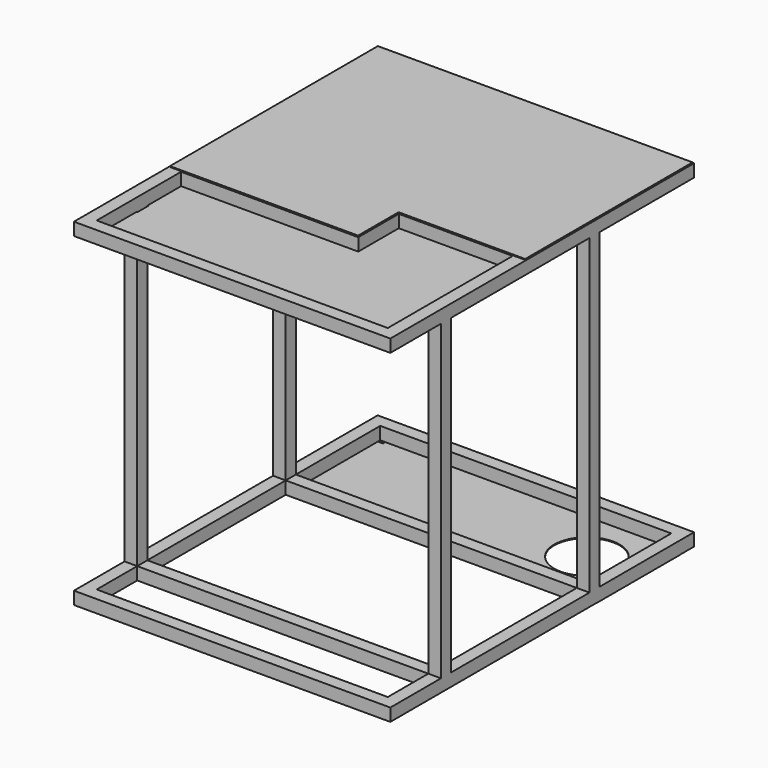
from build123d import *

# Parameters (mm, degrees)
F0_W      = 750
F0_H      = 900
F0_W_2    = 690
F0_H_2    = 120
F0_H_3    = 410
F0_H_4    = 250
F1_DEPTH  = 30
F2_W      = 30
F2_H      = 30
F3_DEPTH  = 740
F5_DEPTH  = 5
F6_W      = 30
F6_H      = 30
F7_DEPTH  = 30
F9_DEPTH  = 2
F10_R     = 77.5
F11_DEPTH = 2
F13_DEPTH = 2


with BuildPart() as f1:
    # F0 (on Top) → F1 (new body)
    with BuildSketch(Plane.XY):
        Rectangle(F0_W, F0_H)
        with Locations((0, -360)):
            Rectangle(F0_W_2, F0_H_2, mode=Mode.SUBTRACT)
        with Locations((0, -65)):
            Rectangle(F0_W_2, F0_H_3, mode=Mode.SUBTRACT)
        with Locations((0, 295)):
            Rectangle(F0_W_2, F0_H_4, mode=Mode.SUBTRACT)
    extrude(amount=F1_DEPTH)

    # F2 (on face) → F3 (join)
    with BuildSketch(Plane.XY.offset(30)):
        with Locations((-360, -285)):
            Rectangle(F2_W, F2_H)
        with Locations((360, -285)):
            Rectangle(F2_W, F2_H)
        with Locations((360, 155)):
            Rectangle(F2_W, F2_H)
        with Locations((-360, 155)):
            Rectangle(F2_W, F2_H)
    extrude(amount=F3_DEPTH)

    # F6 (on face) → F7 (join)
    with BuildSketch(Plane.XY.offset(770)):
        Polygon((375, 170), (375, 450), (-375, 450), (-375, -450), (375, -450), (375, 140), (345, 140), (345, -20), (45, -20), (45, -140), (-345, -140), (-345, 420), (345, 420), (345, 170), align=None)
        Polygon((345, -50), (345, -420), (-345, -420), (-345, -170), (75, -170), (75, -50), align=None, mode=Mode.SUBTRACT)
        with Locations((360, 155)):
            Rectangle(F6_W, F6_H)
    extrude(amount=F7_DEPTH)

    # F10 (on face) → F11 (join)
    with BuildSketch(Plane(origin=(0, 0, 0), x_dir=(1, 0, 0), z_dir=(0, 0, -1))):
        Polygon((-373, -413), (-345, -413), (-345, -170), (345, -170), (345, -413), (373, -413), (373, -160), (0, -160), (-373, -160), align=None)
        Polygon((-333, -413), (-333, -420), (333, -420), (333, -413), (345, -413), (345, -170), (-345, -170), (-345, -413), align=None)
        with Locations((245, -295)):
            Circle(F10_R, mode=Mode.SUBTRACT)
        Polygon((-333, -448), (0, -448), (333, -448), (333, -420), (-333, -420), align=None)
    extrude(amount=F11_DEPTH)


with BuildPart() as f5:
    # F4 (on face) → F5 (new body)
    with BuildSketch(Plane(origin=(0, 0, 0), x_dir=(1, 0, 0), z_dir=(0, 0, -1))):
        Polygon((-345, -415), (-375, -415), (-375, -450), (-335, -450), (-335, -420), (-345, -420), align=None)
        with BuildLine():
            Line((-375, -415), (-383, -415))
            ThreePointArc((-383, -415), (-384.4142135624, -415.5857864376), (-385, -417))
            Line((-385, -417), (-385, -453))
            ThreePointArc((-385, -453), (-384.4142135624, -454.4142135624), (-383, -455))
            Line((-383, -455), (-337, -455))
            ThreePointArc((-337, -455), (-335.5857864376, -454.4142135624), (-335, -453))
            Line((-335, -453), (-335, -450))
            Line((-335, -450), (-375, -450))
            Line((-375, -450), (-375, -415))
        make_face()
        with BuildLine():
            Line((-337, -415), (-345, -415))
            Line((-345, -415), (-345, -420))
            Line((-345, -420), (-335, -420))
            Line((-335, -420), (-335, -417))
            ThreePointArc((-335, -417), (-335.5857864376, -415.5857864376), (-337, -415))
        make_face()
    extrude(amount=F5_DEPTH)


with BuildPart() as f9:
    # F8 (on face) → F9 (new body)
    with BuildSketch(Plane.XY.offset(800)):
        Polygon((373, 448), (-373, 448), (-373, -168), (73, -168), (73, -48), (373, -48), align=None)
        Polygon((345, 420), (345, -20), (45, -20), (45, -140), (-345, -140), (-345, 420), align=None, mode=Mode.SUBTRACT)
        Polygon((45, -20), (345, -20), (345, 420), (-345, 420), (-345, -140), (45, -140), align=None)
    extrude(amount=F9_DEPTH)


with BuildPart() as f13:
    # F12 (on face) → F13 (new body)
    with BuildSketch(Plane(origin=(0, 0, 770), x_dir=(1, 0, 0), z_dir=(0, 0, -1))):
        Polygon((355, 302), (355, 430), (-355, 430), (-355, 302), (-343, 302), (-343, 268), (-355, 268), (-355, 160), (65, 160), (65, 40), (355, 40), (355, 268), (343, 268), (343, 302), align=None)
    extrude(amount=F13_DEPTH)


solid = Compound([f1.part, f5.part, f9.part, f13.part])
